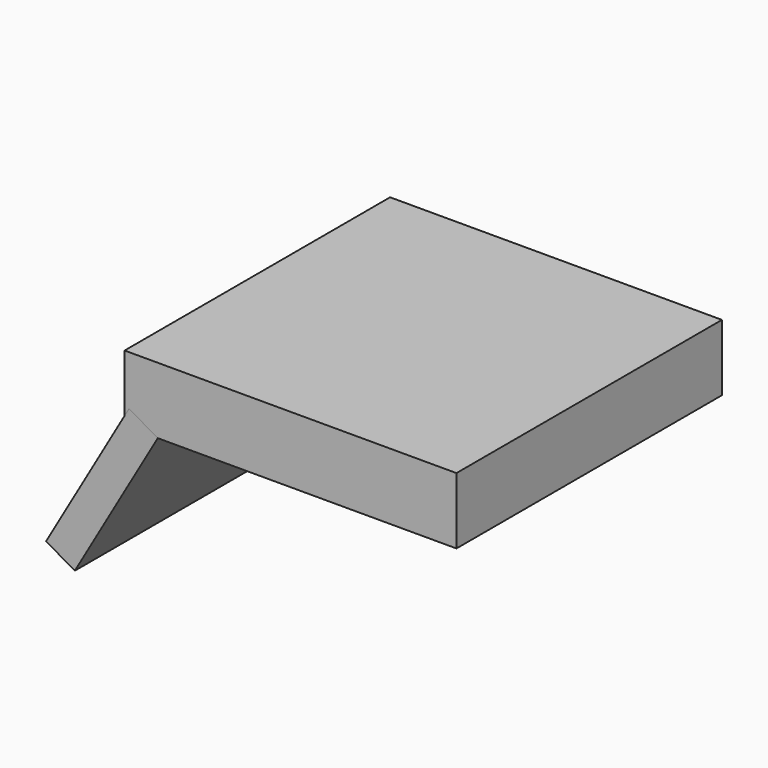
from build123d import *

# Parameters (mm, degrees)
F0_W     = 25.4
F0_H     = 25.4
F1_DEPTH = 5.08
F2_W     = 25.4
F2_H     = 12.7
F3_DEPTH = 2.54
F4_ANGLE = 30


with BuildPart() as f1:
    # F0 (on Top) → F1 (new body)
    with BuildSketch(Plane.XY):
        with Locations((12.7, 12.7)):
            Rectangle(F0_W, F0_H)
    extrude(amount=F1_DEPTH)


with BuildPart() as f3:
    # F2 (on Right) → F3 (new body)
    with BuildSketch(Plane.YZ):
        with Locations((12.7, -6.35)):
            Rectangle(F2_W, F2_H)
    extrude(amount=F3_DEPTH)


with BuildPart() as f3_1:
    # F4: moved
    add(f3.part.rotate(Axis((2.54, 12.7, 0), (0, 1, 0)), F4_ANGLE))


with BuildPart() as f5_1:
    # F5: copy of F3
    add(f3_1.part)


with BuildPart() as f6_1:
    # F6: copy of F3
    add(f3_1.part)


with BuildPart() as f7_1:
    # F7: copy of F3
    add(f3_1.part)


with BuildPart() as f8_1:
    # F8: copy of F3
    add(f3_1.part)


with BuildPart() as f9_1:
    # F9: copy of F3
    add(f3_1.part)


solid = Compound([f1.part, f3_1.part, f5_1.part, f6_1.part, f7_1.part, f8_1.part, f9_1.part])
